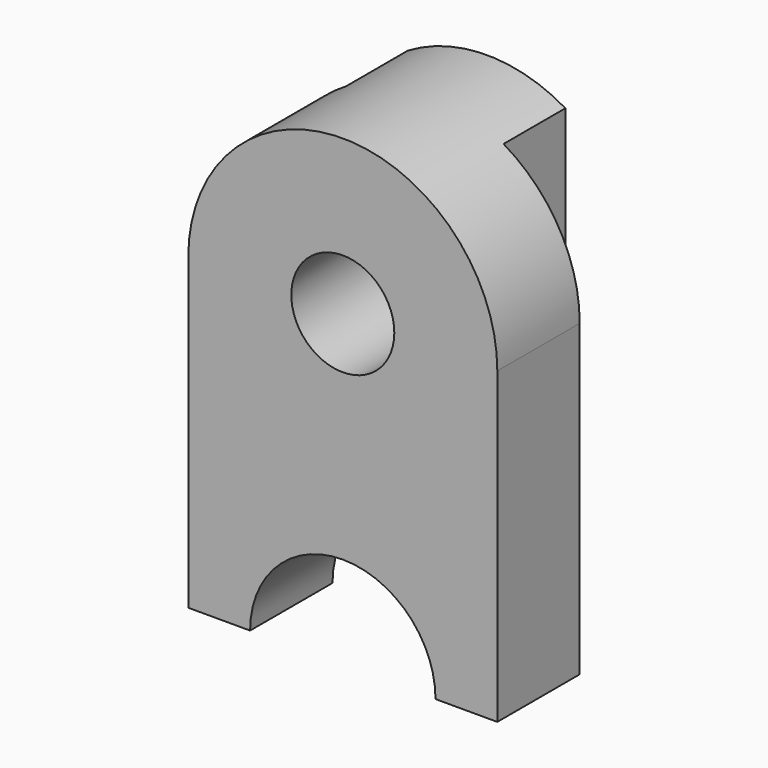
from build123d import *

# Parameters (mm, degrees)
F2_DEPTH = 350
F3_DEPTH = 25
F4_R     = 100
F5_DEPTH = 350.001
F7_DEPTH = 150


with BuildPart() as f2:
    # F0 (on Front) → F2 (new body)
    with BuildSketch(Plane.XZ):
        with BuildLine():
            Line((300, -300), (300, 300))
            Line((300, 300), (-300, 300))
            Line((-300, 300), (-300, -300))
            Line((-300, -300), (-180, -300))
            ThreePointArc((-180, -300), (0, -120), (180, -300))
            Line((180, -300), (300, -300))
        make_face()
        with BuildLine():
            Line((-300, 300), (300, 300))
            ThreePointArc((300, 300), (0, 600), (-300, 300))
        make_face()
    extrude(amount=F2_DEPTH)

    # F1 (on face) → F3 (cut)
    with BuildSketch(Plane.XZ):
        with BuildLine():
            ThreePointArc((180, -300), (0, -120), (-180, -300))
            Line((-180, -300), (180, -300))
        make_face()
    extrude(amount=-F3_DEPTH, mode=Mode.SUBTRACT)

    # F4 (on face) → F5 (cut, through all)
    with BuildSketch(Plane.XZ.offset(350)):
        with Locations((0, 300)):
            Circle(F4_R)
    extrude(amount=-F5_DEPTH, mode=Mode.SUBTRACT)

    # F6 (on face) → F7 (cut)
    with BuildSketch(Plane(origin=(0, 0, 0), x_dir=(-1, 0, 0), z_dir=(0, 1, 0))):
        with BuildLine():
            ThreePointArc((150, 40.192379), (-1.242634, 0.002574), (-152.147139, 41.443917))
            Line((-152.147139, 41.443917), (-152.147139, 558.556083))
            ThreePointArc((-152.147139, 558.556083), (-260.426709, 448.922561), (-300, 300))
            Line((-300, 300), (-300, -300))
            Line((-300, -300), (-180, -300))
            ThreePointArc((-180, -300), (0, -120), (180, -300))
            Line((180, -300), (300, -300))
            Line((300, -300), (300, 300))
            ThreePointArc((300, 300), (260.876453, 448.133306), (153.710157, 557.629943))
            Line((153.710157, 557.629943), (150, 300))
            Line((150, 300), (150, 40.192379))
        make_face()
    extrude(amount=-F7_DEPTH, mode=Mode.SUBTRACT)


solid = f2.part
